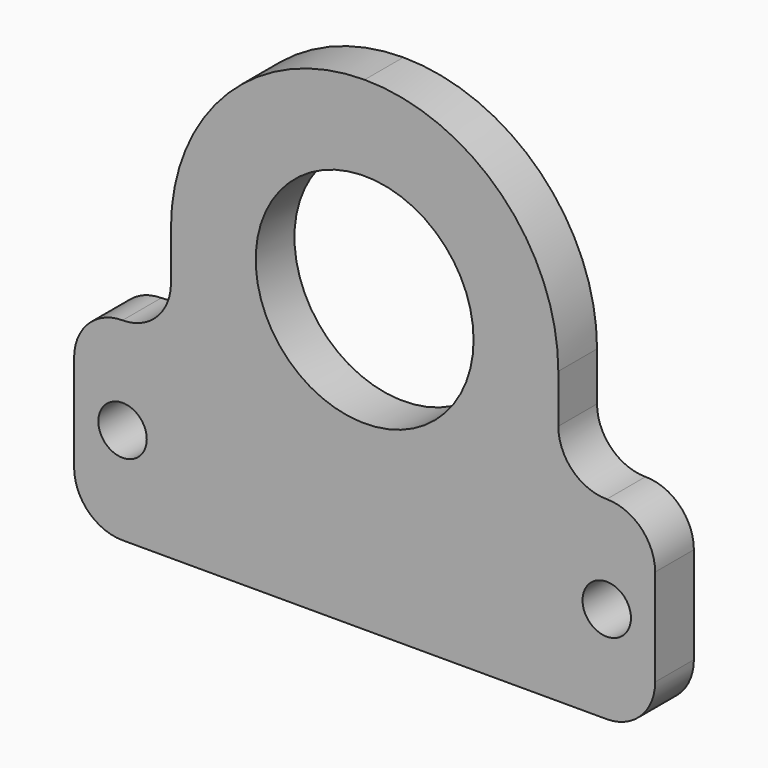
from build123d import *

# Parameters (mm, degrees)
F0_R     = 3.175
F0_R_2   = 14.2875
F1_DEPTH = 6.35


with BuildPart() as f1:
    # F0 (on Front) → F1 (new body)
    with BuildSketch(Plane.XZ):
        with BuildLine():
            Line((-6.35, -63.5), (0, -63.5))
            Line((0, -63.5), (50.8, -63.5))
            Line((50.8, -63.5), (57.15, -63.5))
            ThreePointArc((57.15, -63.5), (61.640128, -61.640128), (63.5, -57.15))
            Line((63.5, -57.15), (63.5, -44.45))
            ThreePointArc((63.5, -44.45), (61.640128, -39.959872), (57.15, -38.1))
            ThreePointArc((57.15, -38.1), (52.659872, -36.240128), (50.8, -31.75))
            Line((50.8, -31.75), (50.8, -25.4))
            ThreePointArc((50.8, -25.4), (43.360512, -7.439488), (25.4, 0))
            ThreePointArc((25.4, 0), (7.439488, -7.439488), (0, -25.4))
            Line((0, -25.4), (0, -31.75))
            ThreePointArc((0, -31.75), (-1.859872, -36.240128), (-6.35, -38.1))
            ThreePointArc((-6.35, -38.1), (-10.840128, -39.959872), (-12.7, -44.45))
            Line((-12.7, -44.45), (-12.7, -57.15))
            ThreePointArc((-12.7, -57.15), (-10.840128, -61.640128), (-6.35, -63.5))
        make_face()
        with Locations((-6.35, -50.8)):
            Circle(F0_R, mode=Mode.SUBTRACT)
        with Locations((57.15, -50.8)):
            Circle(F0_R, mode=Mode.SUBTRACT)
        with Locations((25.4, -25.4)):
            Circle(F0_R_2, mode=Mode.SUBTRACT)
    extrude(amount=F1_DEPTH)


solid = f1.part
